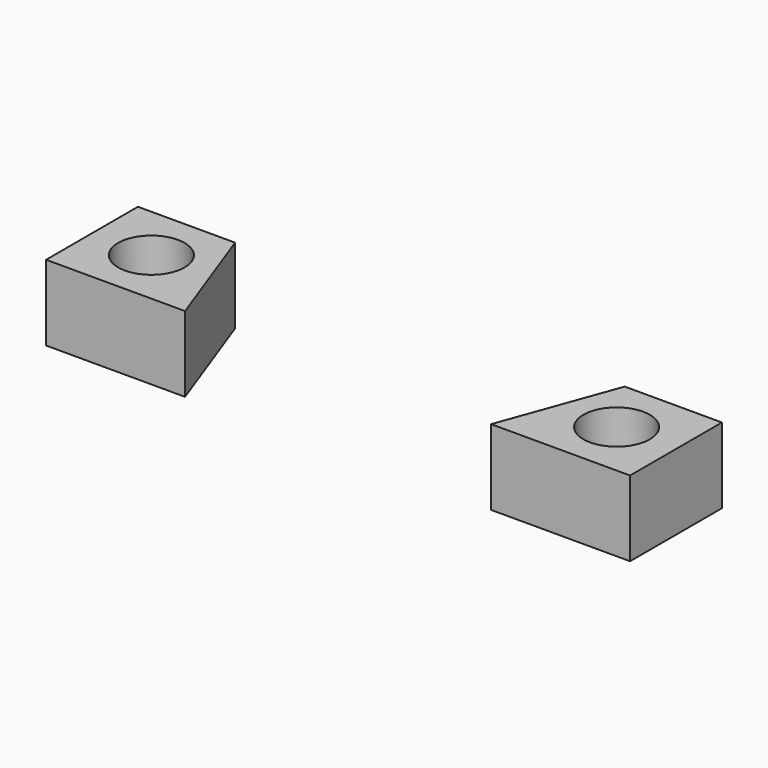
from build123d import *

# Parameters (mm, degrees)
CYLINDER004_R     = 7
CYLINDER004_DEPTH = 150
CYLINDER003_R     = 11
CYLINDER003_DEPTH = 31
PAD011_DEPTH      = 25


with BuildPart() as axe:
    # Cylinder004 → Cylinder004 (new body)
    with BuildSketch(Plane.XY.offset(-50)):
        Circle(CYLINDER004_R)
    extrude(amount=CYLINDER004_DEPTH)


with BuildPart() as clone_of_ball_slider:
    # Cylinder003 → Cylinder003 (new body)
    with BuildSketch(Plane.XY):
        Circle(CYLINDER003_R)
    extrude(amount=CYLINDER003_DEPTH)

    # Fusion003: union axe
    add(axe.part)


with BuildPart() as clone_of_ball_slider_1:
    # Clone017 placement: moved
    add(clone_of_ball_slider.part.moved(Location((-77, -3, 13))))


with BuildPart() as part_mirroring002:
    # Part__Mirroring002: instance of Clone of ball slider
    add(clone_of_ball_slider_1.part.mirror(Plane(origin=(0, 0, 0), x_dir=(0, -1, 0), z_dir=(1, 0, 0))))


with BuildPart() as ball_sliders:
    # Fusion004 base: copy of Clone of ball slider
    add(clone_of_ball_slider_1.part)

    # Fusion004: union Part__Mirroring002
    add(part_mirroring002.part)


with BuildPart() as cut006005:
    # Sketch010 → Pad011 (new body)
    with BuildSketch(Plane.XY):
        Polygon((-96.65489, 16), (-64.485759, 16), (-50.65489, -22), (-96.65489, -22), align=None)
        Polygon((64.485759, 16), (96.65489, 16), (96.65489, -22), (50.65489, -22), align=None)
    extrude(amount=PAD011_DEPTH)

    # Cut006005: cut ball_sliders
    add(ball_sliders.part, mode=Mode.SUBTRACT)


solid = cut006005.part
